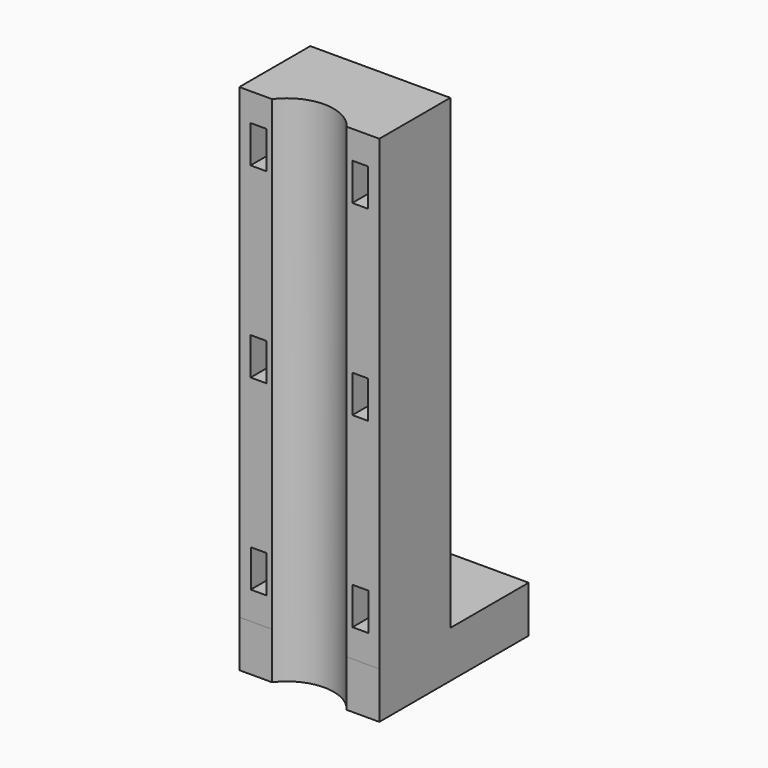
from build123d import *

# Parameters (mm, degrees)
F0_W     = 15
F0_H     = 20
F0_R     = 2.2
F1_DEPTH = 5
F3_W     = 15
F3_H     = 9.501863
F4_DEPTH = 50
F5_DEPTH = 50
F6_W     = 1.7
F6_H     = 4
F7_DEPTH = 25


with BuildPart() as f1:
    # F0 (on Top) → F1 (new body)
    with BuildSketch(Plane.XY):
        with Locations((7.5, 10)):
            Rectangle(F0_W, F0_H)
        with Locations((7.5, 15)):
            Circle(F0_R, mode=Mode.SUBTRACT)
    extrude(amount=F1_DEPTH)

    # F3 (on face) → F4 (join)
    with BuildSketch(Plane.XY.offset(5)):
        with Locations((7.5, 4.750932)):
            Rectangle(F3_W, F3_H)
    extrude(amount=F4_DEPTH)

    # F2 (on face) → F5 (cut, symmetric)
    with BuildSketch(Plane.XY.offset(5)):
        with BuildLine():
            Line((3.5, 0), (11.5, 0))
            ThreePointArc((11.5, 0), (7.5, 2), (3.5, 0))
        make_face()
    extrude(amount=F5_DEPTH, both=True, mode=Mode.SUBTRACT)

    # F6 (on face) → F7 (cut)
    with BuildSketch(Plane.XZ):
        with Locations((2.05, 50)):
            Rectangle(F6_W, F6_H)
        with Locations((12.95, 50)):
            Rectangle(F6_W, F6_H)
        with Locations((2.062654, 30.000004)):
            Rectangle(F6_W, F6_H)
        with Locations((12.962654, 30.000004)):
            Rectangle(F6_W, F6_H)
        with Locations((2.075308, 10.000008)):
            Rectangle(F6_W, F6_H)
        with Locations((12.975308, 10.000008)):
            Rectangle(F6_W, F6_H)
    extrude(amount=-F7_DEPTH, mode=Mode.SUBTRACT)


solid = f1.part
